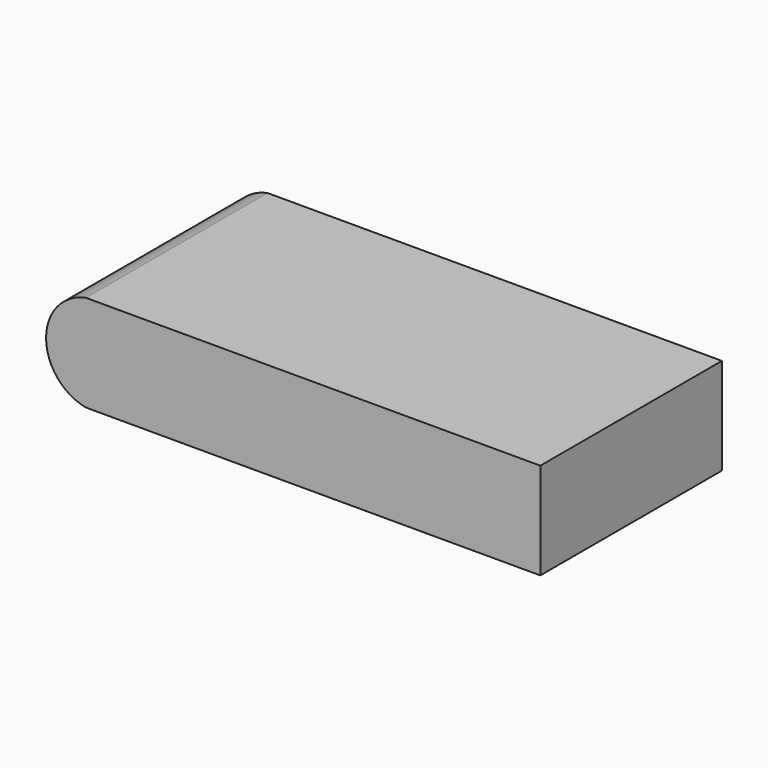
from build123d import *

# Parameters (mm, degrees)
F1_DEPTH = 16.29


with BuildPart() as f1:
    # F0 (on Front) → F1 (new body, symmetric)
    with BuildSketch(Plane.XZ):
        with BuildLine():
            Line((-29.761402, -6.935), (35.475, -6.935))
            Line((35.475, -6.935), (35.475, 6.935))
            Line((35.475, 6.935), (-29.761402, 6.935))
            ThreePointArc((-29.761402, 6.935), (-33.862627, 4.492756), (-35.475, 0))
            ThreePointArc((-35.475, 0), (-33.862627, -4.492756), (-29.761402, -6.935))
        make_face()
    extrude(amount=F1_DEPTH, both=True)


solid = f1.part
